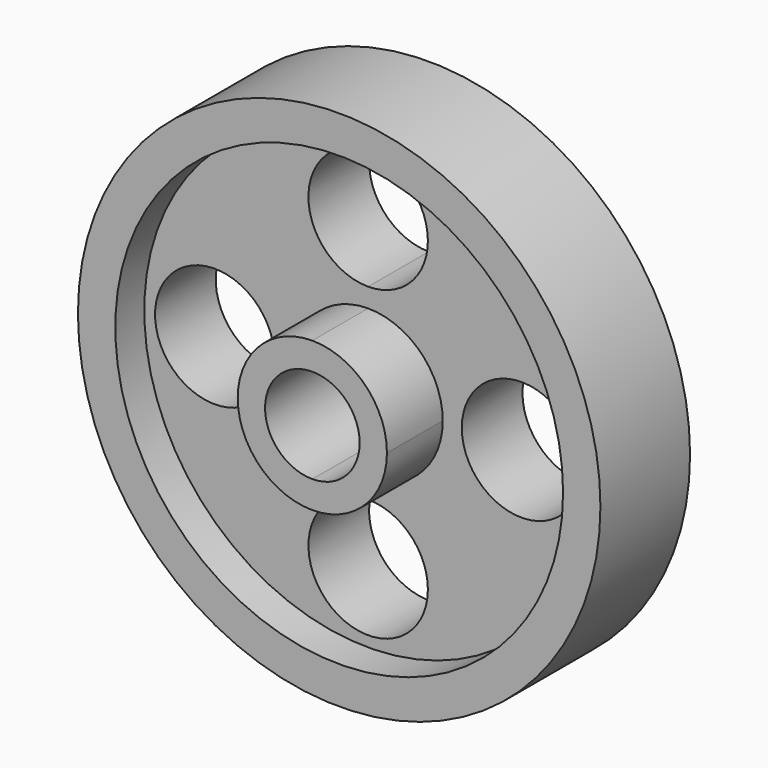
from build123d import *

# Parameters (mm, degrees)
F0_R     = 29.9974
F0_R_2   = 8.001
F1_DEPTH = 10.16
F0_R_3   = 35.0012
F2_DEPTH = 15.0114
F3_DEPTH = 19.5072


with BuildPart() as f1:
    # F0 (on Front) → F1 (new body)
    with BuildSketch(Plane.XZ):
        Circle(F0_R)
        with BuildLine():
            ThreePointArc((8.001, -20.5599348992), (-5.6575613563, -26.2174962555), (0, -12.5589348992))
            ThreePointArc((0, -12.5589348992), (5.6575613563, -14.9023735429), (8.001, -20.5599348992))
        make_face(mode=Mode.SUBTRACT)
        with Locations((-20.5486, 0)):
            Circle(F0_R_2, mode=Mode.SUBTRACT)
        with BuildLine():
            ThreePointArc((0, 9.9949), (7.0674615673, 7.0674615673), (9.9949, 0))
            ThreePointArc((9.9949, 0), (7.0674615673, -7.0674615673), (0, -9.9949))
            ThreePointArc((0, -9.9949), (-9.9949, 0), (0, 9.9949))
        make_face(mode=Mode.SUBTRACT)
        with BuildLine():
            ThreePointArc((28.5496, 0), (20.5486, -8.001), (12.5476, 0))
            ThreePointArc((12.5476, 0), (20.5486, 8.001), (28.5496, 0))
        make_face(mode=Mode.SUBTRACT)
        with BuildLine():
            ThreePointArc((8.001, 20.5599348992), (5.6575613563, 14.9023735429), (0, 12.5589348992))
            ThreePointArc((0, 12.5589348992), (-5.6575613563, 26.2174962555), (8.001, 20.5599348992))
        make_face(mode=Mode.SUBTRACT)
    extrude(amount=F1_DEPTH)

    # F0 (on Front) → F2 (join)
    with BuildSketch(Plane.XZ):
        Circle(F0_R_3)
        Circle(F0_R, mode=Mode.SUBTRACT)
    extrude(amount=F2_DEPTH)

    # F0 (on Front) → F3 (join)
    with BuildSketch(Plane.XZ):
        with BuildLine():
            Line((9.9949, 0), (6.3373, 0))
            ThreePointArc((6.3373, 0), (4.4811478044, -4.4811478044), (0, -6.3373))
            Line((0, -6.3373), (0, -9.9949))
            ThreePointArc((0, -9.9949), (7.0674615673, -7.0674615673), (9.9949, 0))
        make_face()
        with BuildLine():
            ThreePointArc((0, 6.3373), (4.4811478044, 4.4811478044), (6.3373, 0))
            Line((6.3373, 0), (9.9949, 0))
            ThreePointArc((9.9949, 0), (7.0674615673, 7.0674615673), (0, 9.9949))
            Line((0, 9.9949), (0, 6.3373))
        make_face()
        with BuildLine():
            ThreePointArc((0, -6.3373), (-6.3373, 0), (0, 6.3373))
            Line((0, 6.3373), (0, 9.9949))
            ThreePointArc((0, 9.9949), (-9.9949, 0), (0, -9.9949))
            Line((0, -9.9949), (0, -6.3373))
        make_face()
    extrude(amount=F3_DEPTH)


solid = f1.part
